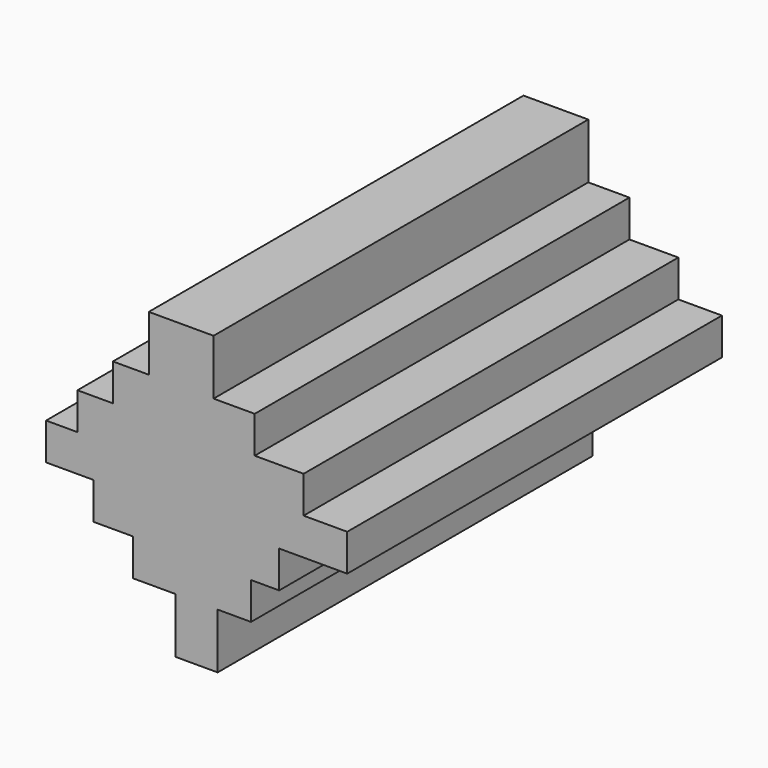
from build123d import *

# Parameters (mm, degrees)
F1_DEPTH = 25.4


with BuildPart() as f1:
    # F0 (on Front) → F1 (new body)
    with BuildSketch(Plane.XZ):
        Polygon((-10.220993, 2), (-10.220993, 0), (-7.657457, 0), (-7.657457, -2), (-5.513811, -2), (-5.513811, -4), (-3.193369, -4), (-3.193369, -7), (-0.917126, -7), (-0.917126, -4), (0.895028, -4), (0.895028, -2), (2.419889, -2), (2.419889, 0), (6.110497, 0), (6.110497, 2), (3.745856, 2), (3.745856, 4), (1.093923, 4), (1.093923, 6), (-1.138121, 6), (-1.138121, 9), (-4.651933, 9), (-4.651933, 6), (-6.596684, 6), (-6.596684, 4), (-8.519335, 4), (-8.519335, 2), align=None)
    extrude(amount=F1_DEPTH)


solid = f1.part
